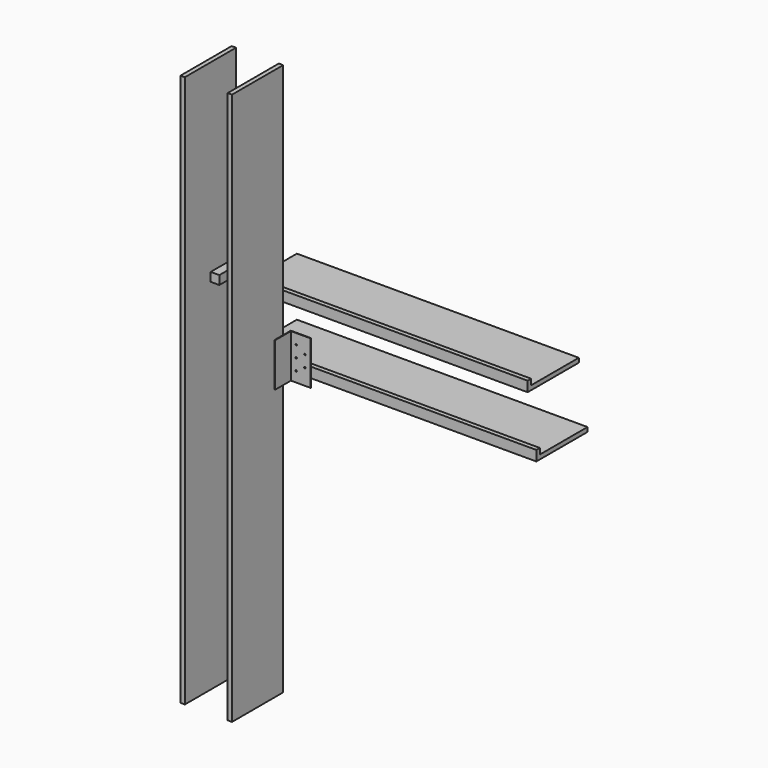
from build123d import *

# Parameters (mm, degrees)
F0_W      = 15
F0_H      = 1900
F1_DEPTH  = 220
F2_W      = 30
F2_H      = 30
F3_DEPTH  = 160
F4_W      = 1000
F4_H      = 220
F5_DEPTH  = 15
F6_W      = 1000
F6_H      = 15
F7_DEPTH  = 20
F9_DEPTH  = 150
F11_D     = 5
F13_DEPTH = 30


with BuildPart() as f1:
    # F0 (on Front) → F1 (new body)
    with BuildSketch(Plane.XZ):
        with Locations((-81.1750778977, -4.2548663914)):
            Rectangle(F0_W, F0_H)
    extrude(amount=F1_DEPTH)


with BuildPart() as f3:
    # F2 (on Front) → F3 (new body)
    with BuildSketch(Plane.XZ):
        with Locations((-17.9298563302, 329.8843944073)):
            Rectangle(F2_W, F2_H)
    extrude(amount=F3_DEPTH)


with BuildPart() as f5:
    # F4 (on Top) → F5 (new body)
    with BuildSketch(Plane.XY):
        with Locations((425.6620332599, 152.626734823)):
            Rectangle(F4_W, F4_H)
    extrude(amount=F5_DEPTH)

    # F6 (on face) → F7 (join)
    with BuildSketch(Plane.XY.offset(15)):
        with Locations((425.6620332599, 50.126734823)):
            Rectangle(F6_W, F6_H)
    extrude(amount=F7_DEPTH)


with BuildPart() as f9:
    # F8 (on Top) → F9 (new body)
    with BuildSketch(Plane.XY):
        with BuildLine():
            Line((184.8400944316, -2), (184.8400944316, 0))
            Line((184.8400944316, 0), (115.8400944316, 0))
            ThreePointArc((115.8400944316, 0), (115.1329876504, -0.2928932188), (114.8400944316, -1))
            Line((114.8400944316, -1), (114.8400944316, -70))
            Line((114.8400944316, -70), (116.8400944316, -70))
            Line((116.8400944316, -70), (116.8400944316, -3))
            ThreePointArc((116.8400944316, -3), (117.1329876504, -2.2928932188), (117.8400944316, -2))
            Line((117.8400944316, -2), (184.8400944316, -2))
        make_face()
    extrude(amount=F9_DEPTH)

    # F11 (through all)
    with Locations(Plane.XZ.offset(2)):
        with Locations((134.8400944316, 115), (164.8400944316, 95), (134.8400944316, 75), (164.8400944316, 55), (134.8400944316, 35)):
            Hole(F11_D / 2)


with BuildPart() as f12_1:
    # F12: copy of F5
    add(f5.part.moved(Location((0, 0, 200))))

    # F13 (cut): a face of the model
    f13_faces = [f12_1.faces().sort_by_distance(p)[0] for p in [
        (925.6620332599, 144.0850681563, 208.9583333333),
    ]]
    extrude(f13_faces, amount=-F13_DEPTH, mode=Mode.SUBTRACT)


with BuildPart() as f14_1:
    # F14: instance of F1
    add(f1.part.mirror(Plane.YZ))


solid = Compound([f1.part, f3.part, f5.part, f9.part, f12_1.part, f14_1.part])
